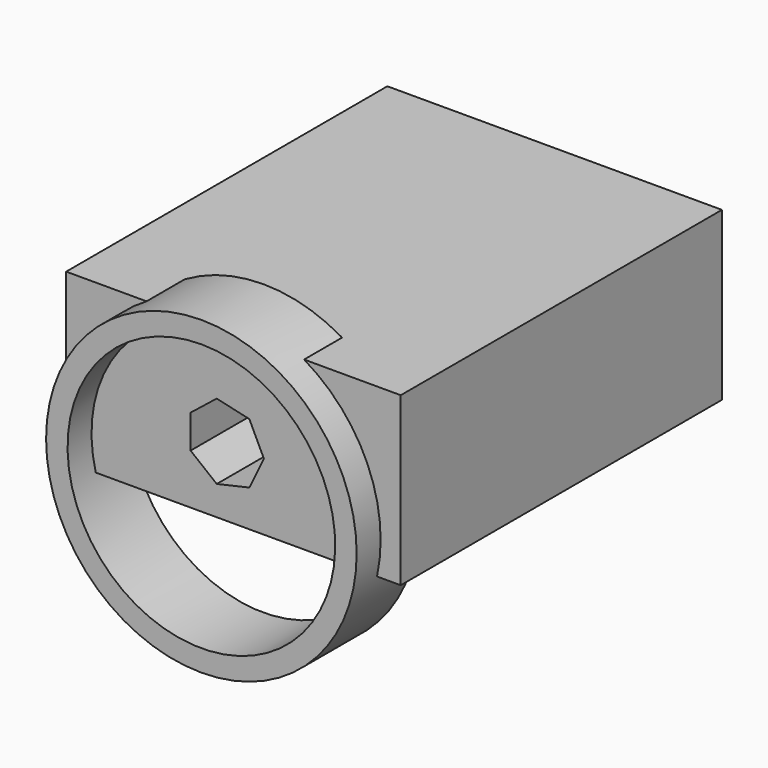
from build123d import *

# Parameters (mm, degrees)
F0_W     = 100
F0_H     = 120
F1_DEPTH = 50
F3_DEPTH = 120.001
F4_W     = 23.138892
F4_H     = 6.416667


with BuildPart() as f1:
    # F0 (on Top) → F1 (new body)
    with BuildSketch(Plane.XY):
        with Locations((2.430556, 27.823799)):
            Rectangle(F0_W, F0_H)
    extrude(amount=F1_DEPTH)

    # F2 (on face) → F3 (cut, through all)
    with BuildSketch(Plane.XZ.offset(32.176201)):
        Polygon((7.184987, 29.009689), (-2.564292, 31.234898), (-10.382607, 25), (-10.382607, 15), (-2.564292, 8.765102), (7.184987, 10.990311), (11.523824, 20), align=None)
        Polygon((7.184987, 29.009689), (-2.564292, 31.234898), (-10.382607, 25), (-10.382607, 15), (-2.564292, 8.765102), (7.184987, 10.990311), (11.523824, 20), align=None)
    extrude(amount=-F3_DEPTH, mode=Mode.SUBTRACT)


with BuildPart() as f5:
    # F4 (on Right) → F5 (revolve)
    with BuildSketch(Plane.YZ):
        with Locations((-29.555557, 53.208333)):
            Rectangle(F4_W, F4_H)
    revolve(axis=Axis((0, -54.805739, 10), (0, 1, 0)))


with BuildPart() as f1_1:
    add(f1.part)

    # F6: cut F5
    add(f5.part, mode=Mode.SUBTRACT)


solid = Compound([f5.part, f1_1.part])
